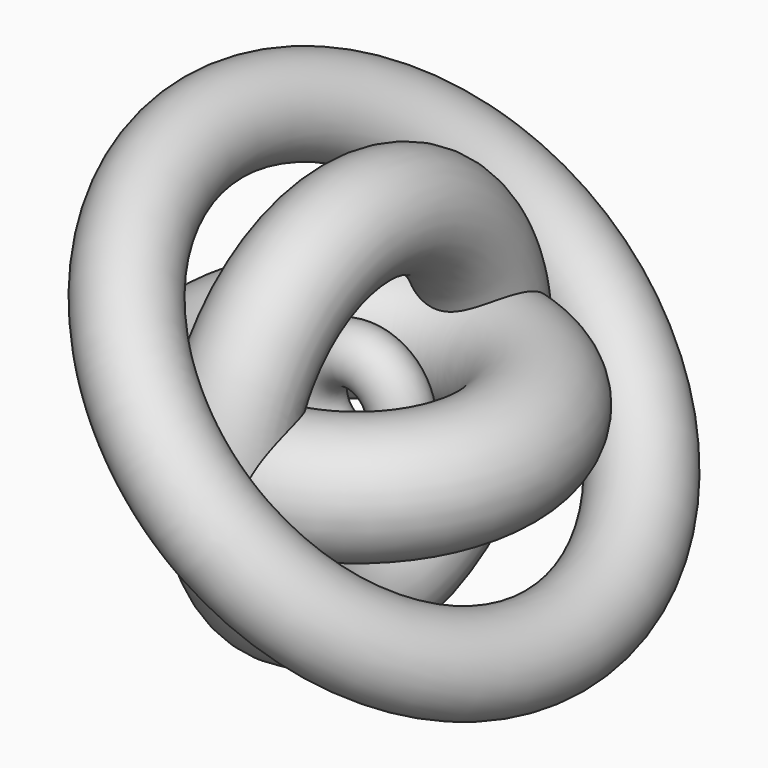
from build123d import *

# Parameters (mm, degrees)
F0_R = 16.551575
F2_R = 7.639282
F4_R = 14.54274
F6_R = 12.66008


with BuildPart() as f1:
    # F0 (on Front) → F1 (revolve)
    with BuildSketch(Plane.XZ):
        with Locations((38.976718, 0)):
            Circle(F0_R)
    revolve(axis=Axis((0, 0, 0.097932), (0, 0, -1)))

    # F4 (on Front) → F5 (revolve)
    with BuildSketch(Plane.XZ):
        with Locations((0, 44.950537)):
            Circle(F4_R)
    revolve(axis=Axis((-2.546215, 0, 0), (-1, 0, 0)))

    # F6 (on Front) → F7 (revolve)
    with BuildSketch(Plane.XZ):
        with Locations((55.233344, -40.053967)):
            Circle(F6_R)
    revolve(axis=Axis((0.195861, 0, 0.293791), (-0.708016, 0, -0.706196)))


with BuildPart() as f3:
    # F2 (on Top) → F3 (revolve)
    with BuildSketch(Plane.XY):
        with Locations((-12.535227, 0)):
            Circle(F2_R)
    revolve(axis=Axis((0, 0.391725, 0), (0, -1, 0)))


solid = Compound([f1.part, f3.part])
